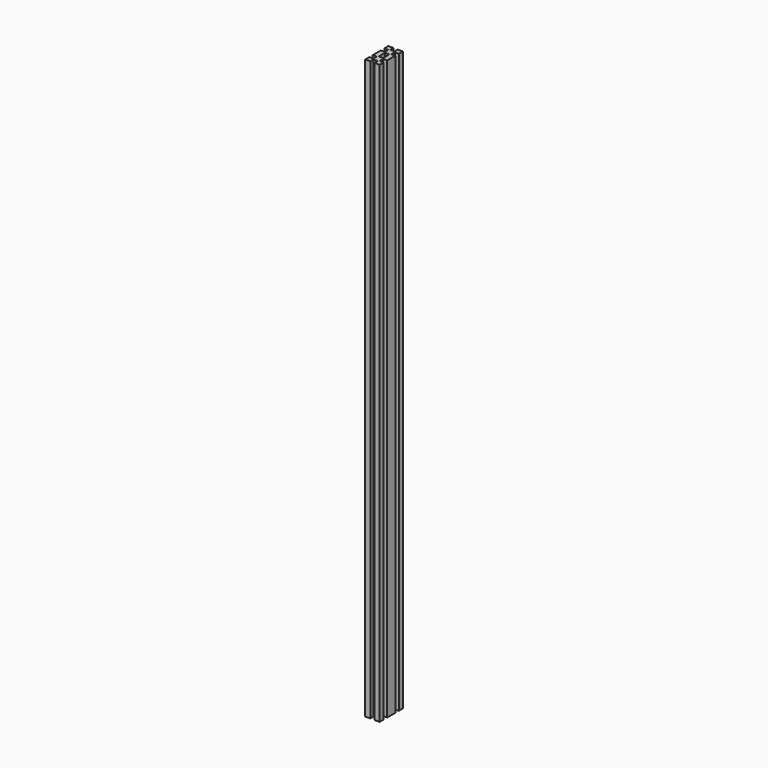
from build123d import *

# Parameters (mm, degrees)
F1_DEPTH = 800


with BuildPart() as f1:
    # F0 (on Top) → F1 (new body)
    with BuildSketch(Plane.XY):
        Polygon((0, 7), (0, 0), (7, 0), (7, 5.5), (13, 5.5), (13, 0), (20, 0), (20, 7), (14.5, 7), (14.5, 13), (20, 13), (20, 20), (13, 20), (13, 14.5), (7, 14.5), (7, 20), (0, 20), (0, 13), (5.5, 13), (5.5, 7), align=None)
        Polygon((7, 0), (0, 0), (0, -7), (5.5, -7), (5.5, -13), (0, -13), (0, -20), (7, -20), (7, -14.5), (13, -14.5), (13, -20), (20, -20), (20, -13), (14.5, -13), (14.5, -7), (20, -7), (20, 0), (13, 0), (13, -5.5), (7, -5.5), align=None)
    extrude(amount=F1_DEPTH)


solid = f1.part
